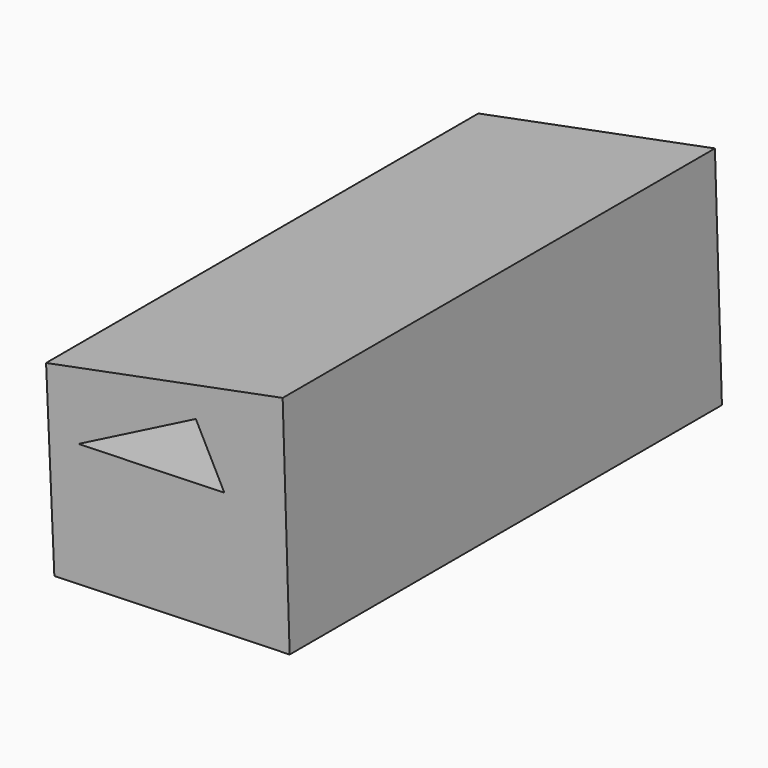
from build123d import *

# Parameters (mm, degrees)
F1_DEPTH = 150
F3_DEPTH = 150


with BuildPart() as f1:
    # F0 (on Front) → F1 (new body)
    with BuildSketch(Plane.XZ):
        Polygon((28.276451, 42.411166), (-37.40133, 29.600831), (-35.104082, -21.729451), (30.22358, -19.680858), align=None)
    extrude(amount=F1_DEPTH)

    # F2 (on face) → F3 (cut, through all)
    with BuildSketch(Plane.XZ.offset(150)):
        Polygon((4.172679, 29.429636), (-28.430922, 12.719062), (12.086263, 13.98963), align=None)
    extrude(amount=-F3_DEPTH, mode=Mode.SUBTRACT)


solid = f1.part
